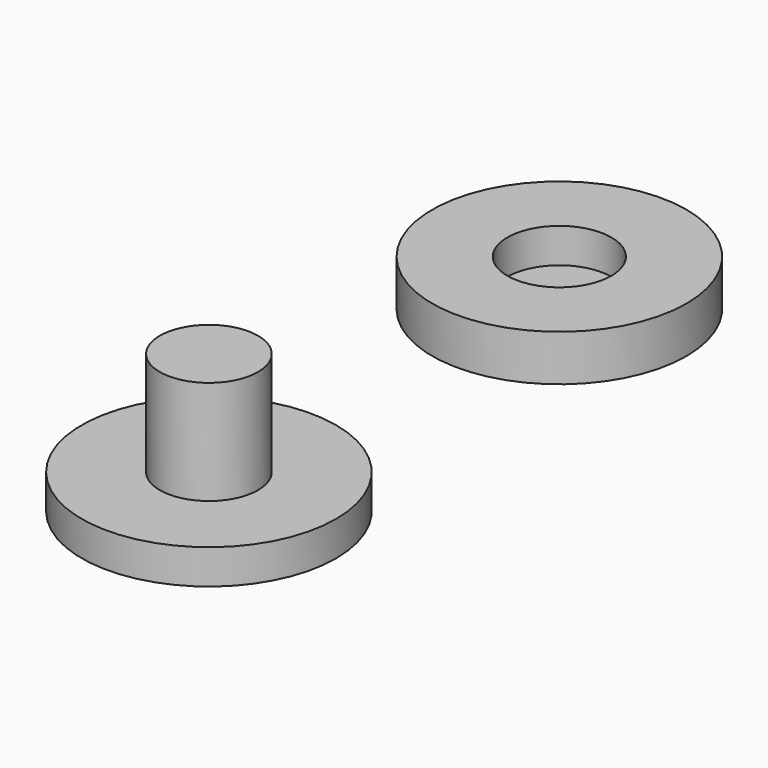
from build123d import *

# Parameters (mm, degrees)
F0_R     = 11
F1_DEPTH = 3
F2_R     = 4.25
F3_DEPTH = 9
F4_R     = 11
F5_DEPTH = 4
F6_R     = 4.5
F7_DEPTH = 3


with BuildPart() as f1:
    # F0 (on Top) → F1 (new body)
    with BuildSketch(Plane.XY):
        Circle(F0_R)
    extrude(amount=F1_DEPTH)

    # F2 (on face) → F3 (join)
    with BuildSketch(Plane.XY.offset(3)):
        Circle(F2_R)
    extrude(amount=F3_DEPTH)


with BuildPart() as f5:
    # F4 (on Top) → F5 (new body)
    with BuildSketch(Plane.XY):
        with Locations((0, 37.895887)):
            Circle(F4_R)
    extrude(amount=F5_DEPTH)

    # F6 (on face) → F7 (cut)
    with BuildSketch(Plane.XY.offset(4)):
        with Locations((0, 37.895887)):
            Circle(F6_R)
    extrude(amount=-F7_DEPTH, mode=Mode.SUBTRACT)


solid = Compound([f1.part, f5.part])
